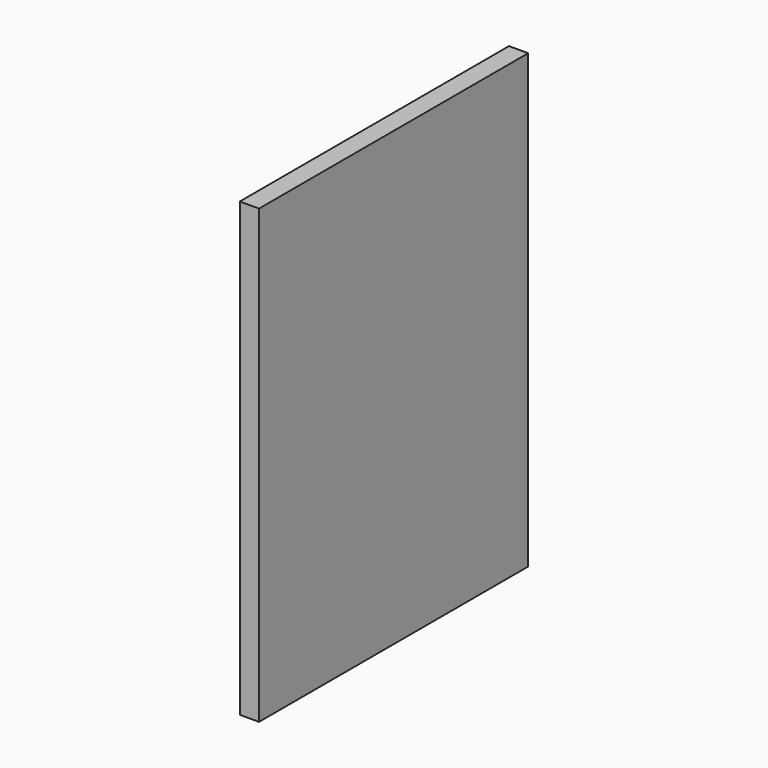
from build123d import *

# Parameters (mm, degrees)
F2_W     = 444.5
F2_H     = 596.9
F3_DEPTH = 25.4
F1_W     = 393.7
F1_H     = 546.1
F4_DEPTH = 25.4


with BuildPart() as f3:
    # F2 (on Right) → F3 (new body)
    with BuildSketch(Plane.YZ):
        with Locations((-203.2, 279.4)):
            Rectangle(F2_W, F2_H)
    extrude(amount=F3_DEPTH)

    # F1 (on Right) → F4 (join)
    with BuildSketch(Plane.YZ):
        with Locations((-203.2, 279.4)):
            Rectangle(F1_W, F1_H)
    extrude(amount=F4_DEPTH)


solid = f3.part
